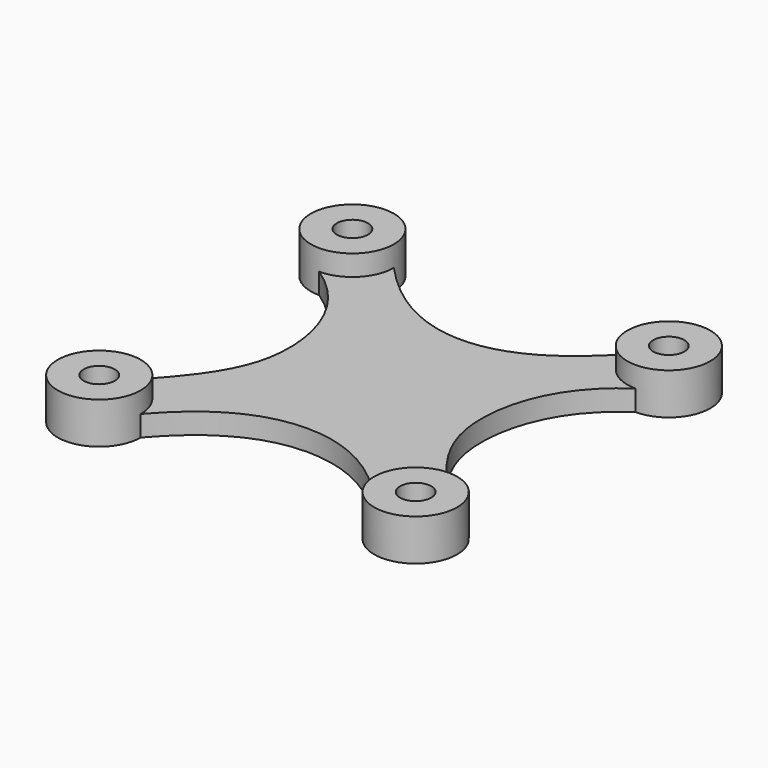
from build123d import *

# Parameters (mm, degrees)
F1_DEPTH = 2
F2_DEPTH = 4
F3_START = 2
F0_R     = 1.5
F3_DEPTH = 2


with BuildPart() as f1:
    # F0 (on Top) → F1 (new body)
    with BuildSketch(Plane.XY):
        with BuildLine():
            ThreePointArc((0, 4), (-2.8284271247, -2.8284271247), (4, 0))
            ThreePointArc((4, 0), (2.8284271247, 2.8284271247), (0, 4))
        make_face()
        Polygon((3, 1.7320508076), (3, 0), (3, -1.7320508076), (1.4999999564, -2.5980762365), (0, -3.4641016151), (-1.4999999973, -2.5980762129), (-3, -1.7320508076), (-3, 0), (-3, 1.7320508076), (-1.4999999564, 2.5980762365), (0, 3.4641016151), (1.4999999564, 2.5980762365), align=None, mode=Mode.SUBTRACT)
        with BuildLine():
            ThreePointArc((0, 4), (2.8284271247, 2.8284271247), (4, 0))
            add(Edge.make_bspline(
                [(4, 0), (7.75, 4.317717161), (15.25, 7.682282839), (22.75, 4.317717161), (26.5, 0)],
                knots=[0, 0, 0, 0, 0.5, 1, 1, 1, 1], degree=3))
            ThreePointArc((26.5, 0), (27.6715728753, 2.8284271247), (30.5, 4))
            add(Edge.make_bspline(
                [(30.5, 26.5), (25.9933560661, 23.4998809866), (22.921031967, 14.5143643781), (26.1645799999, 8.4713902573), (30.5, 4)],
                knots=[0, 0, 0, 0, 0.5, 1, 1, 1, 1], degree=3))
            ThreePointArc((30.5, 26.5), (27.6715728753, 27.6715728753), (26.5, 30.5))
            add(Edge.make_bspline(
                [(15.25, 24.5), (19, 24.5), (22.75, 26.3951093107), (26.5, 30.5)],
                knots=[0.5, 0.5, 0.5, 0.5, 1, 1, 1, 1], degree=3))
            add(Edge.make_bspline(
                [(4, 30.5), (7.75, 26.3951093107), (11.5, 24.5), (15.25, 24.5)],
                knots=[0, 0, 0, 0, 0.5, 0.5, 0.5, 0.5], degree=3))
            ThreePointArc((4, 30.5), (2.8284271247, 27.6715728753), (0, 26.5))
            add(Edge.make_bspline(
                [(0, 26.5), (4.5066439339, 23.4998809866), (7.578968033, 14.5143643781), (4.3354200001, 8.4713902573), (0, 4)],
                knots=[0, 0, 0, 0, 0.5, 1, 1, 1, 1], degree=3))
        make_face()
        with BuildLine():
            ThreePointArc((30.5, 4), (27.6715728753, 2.8284271247), (26.5, 0))
            ThreePointArc((26.5, 0), (30.5, -4), (34.5, 0))
            ThreePointArc((34.5, 0), (33.3284271247, 2.8284271247), (30.5, 4))
        make_face()
        Polygon((27.5, 1.7320508076), (30.5, 3.4641016151), (33.5, 1.7320508076), (33.5, -1.7320508076), (30.5, -3.4641016151), (27.5, -1.7320508076), align=None, mode=Mode.SUBTRACT)
        with BuildLine():
            ThreePointArc((4, 30.5), (-2.8284271247, 33.3284271247), (0, 26.5))
            ThreePointArc((0, 26.5), (2.8284271247, 27.6715728753), (4, 30.5))
        make_face()
        Polygon((-3, 32.2320508076), (0, 33.9641016151), (3, 32.2320508076), (3, 28.7679491924), (0, 27.0358983849), (-3, 28.7679491924), align=None, mode=Mode.SUBTRACT)
        with BuildLine():
            ThreePointArc((26.5, 30.5), (27.6715728753, 27.6715728753), (30.5, 26.5))
            ThreePointArc((30.5, 26.5), (33.3284271247, 27.6715728753), (34.5, 30.5))
            ThreePointArc((34.5, 30.5), (30.5, 34.5), (26.5, 30.5))
        make_face()
        Polygon((27.5, 32.2320508076), (30.5, 33.9641016151), (33.5, 32.2320508076), (33.5, 28.7679491924), (30.5, 27.0358983849), (27.5, 28.7679491924), align=None, mode=Mode.SUBTRACT)
    extrude(amount=F1_DEPTH)

    # F0 (on Top) → F2 (join)
    with BuildSketch(Plane.XY):
        with BuildLine():
            ThreePointArc((4, 30.5), (-2.8284271247, 33.3284271247), (0, 26.5))
            ThreePointArc((0, 26.5), (2.8284271247, 27.6715728753), (4, 30.5))
        make_face()
        Polygon((-3, 32.2320508076), (0, 33.9641016151), (3, 32.2320508076), (3, 28.7679491924), (0, 27.0358983849), (-3, 28.7679491924), align=None, mode=Mode.SUBTRACT)
        with BuildLine():
            ThreePointArc((26.5, 30.5), (27.6715728753, 27.6715728753), (30.5, 26.5))
            ThreePointArc((30.5, 26.5), (33.3284271247, 27.6715728753), (34.5, 30.5))
            ThreePointArc((34.5, 30.5), (30.5, 34.5), (26.5, 30.5))
        make_face()
        Polygon((27.5, 32.2320508076), (30.5, 33.9641016151), (33.5, 32.2320508076), (33.5, 28.7679491924), (30.5, 27.0358983849), (27.5, 28.7679491924), align=None, mode=Mode.SUBTRACT)
        with BuildLine():
            ThreePointArc((30.5, 4), (27.6715728753, 2.8284271247), (26.5, 0))
            ThreePointArc((26.5, 0), (30.5, -4), (34.5, 0))
            ThreePointArc((34.5, 0), (33.3284271247, 2.8284271247), (30.5, 4))
        make_face()
        Polygon((27.5, 1.7320508076), (30.5, 3.4641016151), (33.5, 1.7320508076), (33.5, -1.7320508076), (30.5, -3.4641016151), (27.5, -1.7320508076), align=None, mode=Mode.SUBTRACT)
        with BuildLine():
            ThreePointArc((0, 4), (-2.8284271247, -2.8284271247), (4, 0))
            ThreePointArc((4, 0), (2.8284271247, 2.8284271247), (0, 4))
        make_face()
        Polygon((3, 1.7320508076), (3, 0), (3, -1.7320508076), (1.4999999564, -2.5980762365), (0, -3.4641016151), (-1.4999999973, -2.5980762129), (-3, -1.7320508076), (-3, 0), (-3, 1.7320508076), (-1.4999999564, 2.5980762365), (0, 3.4641016151), (1.4999999564, 2.5980762365), align=None, mode=Mode.SUBTRACT)
    extrude(amount=F2_DEPTH)

    # F0 (on Top) → F3 (join)
    with BuildSketch(Plane.XY.offset(F3_START)):
        with BuildLine():
            ThreePointArc((1.4999999564, -2.5980762365), (2.5980761988, -1.5000000218), (3, 0))
            ThreePointArc((3, 0), (2.5980761988, 1.5000000218), (1.4999999564, 2.5980762365))
            ThreePointArc((1.4999999564, 2.5980762365), (0, 3), (-1.4999999564, 2.5980762365))
            ThreePointArc((-1.4999999564, 2.5980762365), (-2.5980761988, 1.5000000218), (-3, 0))
            ThreePointArc((-3, 0), (-2.5980762106, -1.5000000014), (-1.4999999973, -2.5980762129))
            ThreePointArc((-1.4999999973, -2.5980762129), (-2.36e-08, -3), (1.4999999564, -2.5980762365))
        make_face()
        Circle(F0_R, mode=Mode.SUBTRACT)
        with BuildLine():
            ThreePointArc((-3, 0), (-2.5980761988, 1.5000000218), (-1.4999999564, 2.5980762365))
            Line((-1.4999999564, 2.5980762365), (-3, 1.7320508076))
            Line((-3, 1.7320508076), (-3, 0))
        make_face()
        with BuildLine():
            ThreePointArc((1.4999999564, 2.5980762365), (2.5980761988, 1.5000000218), (3, 0))
            Line((3, 0), (3, 1.7320508076))
            Line((3, 1.7320508076), (1.4999999564, 2.5980762365))
        make_face()
        with BuildLine():
            Line((3, -1.7320508076), (3, 0))
            ThreePointArc((3, 0), (2.5980761988, -1.5000000218), (1.4999999564, -2.5980762365))
            Line((1.4999999564, -2.5980762365), (3, -1.7320508076))
        make_face()
        with BuildLine():
            Line((-3, -1.7320508076), (-1.4999999973, -2.5980762129))
            ThreePointArc((-1.4999999973, -2.5980762129), (-2.5980762106, -1.5000000014), (-3, 0))
            Line((-3, 0), (-3, -1.7320508076))
        make_face()
        with BuildLine():
            ThreePointArc((-1.4999999564, 2.5980762365), (0, 3), (1.4999999564, 2.5980762365))
            Line((1.4999999564, 2.5980762365), (0, 3.4641016151))
            Line((0, 3.4641016151), (-1.4999999564, 2.5980762365))
        make_face()
        with BuildLine():
            Line((0, -3.4641016151), (1.4999999564, -2.5980762365))
            ThreePointArc((1.4999999564, -2.5980762365), (-2.36e-08, -3), (-1.4999999973, -2.5980762129))
            Line((-1.4999999973, -2.5980762129), (0, -3.4641016151))
        make_face()
        Polygon((33.5, 1.7320508076), (30.5, 3.4641016151), (27.5, 1.7320508076), (27.5, -1.7320508076), (30.5, -3.4641016151), (33.5, -1.7320508076), align=None)
        with Locations((30.5, 0)):
            Circle(F0_R, mode=Mode.SUBTRACT)
        Polygon((33.5, 32.2320508076), (30.5, 33.9641016151), (27.5, 32.2320508076), (27.5, 28.7679491924), (30.5, 27.0358983849), (33.5, 28.7679491924), align=None)
        with Locations((30.5, 30.5)):
            Circle(F0_R, mode=Mode.SUBTRACT)
        Polygon((3, 32.2320508076), (0, 33.9641016151), (-3, 32.2320508076), (-3, 28.7679491924), (0, 27.0358983849), (3, 28.7679491924), align=None)
        with Locations((0, 30.5)):
            Circle(F0_R, mode=Mode.SUBTRACT)
    extrude(amount=F3_DEPTH)


solid = f1.part
